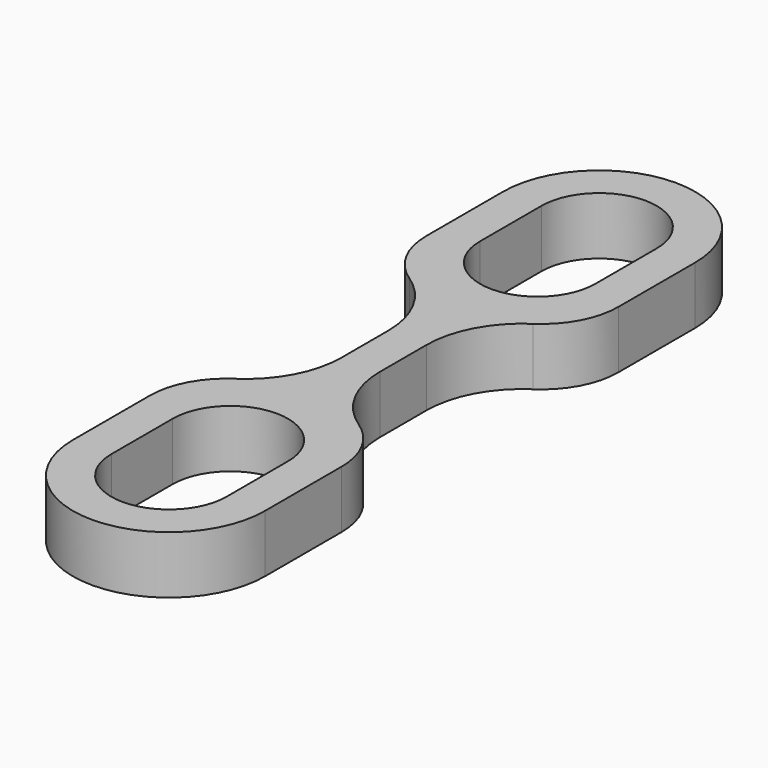
from build123d import *

# Parameters (mm, degrees)
F1_DEPTH = 15


with BuildPart() as f1:
    # F0 (on Top) → F1 (new body)
    with BuildSketch(Plane.XY):
        with BuildLine():
            Line((25, 45), (25, 70))
            ThreePointArc((25, 70), (0, 95), (-25, 70))
            Line((-25, 70), (-25, 45))
            ThreePointArc((-25, 45), (-22.638342, 35.57191), (-16.111111, 28.370412))
            ThreePointArc((-16.111111, 28.370412), (-7.952072, 19.368539), (-5, 7.583426))
            Line((-5, 7.583426), (-5, 0))
            Line((-5, 0), (-5, -7.583426))
            ThreePointArc((-5, -7.583426), (-7.952072, -19.368539), (-16.111111, -28.370412))
            ThreePointArc((-16.111111, -28.370412), (-22.638342, -35.57191), (-25, -45))
            Line((-25, -45), (-25, -70))
            ThreePointArc((-25, -70), (0, -95), (25, -70))
            Line((25, -70), (25, -45))
            ThreePointArc((25, -45), (22.638342, -35.57191), (16.111111, -28.370412))
            ThreePointArc((16.111111, -28.370412), (7.952072, -19.368539), (5, -7.583426))
            Line((5, -7.583426), (5, 0))
            Line((5, 0), (5, 7.583426))
            ThreePointArc((5, 7.583426), (7.952072, 19.368539), (16.111111, 28.370412))
            ThreePointArc((16.111111, 28.370412), (22.638342, 35.57191), (25, 45))
        make_face()
        with BuildLine():
            ThreePointArc((15, -70), (0, -85), (-15, -70))
            Line((-15, -70), (-15, -50))
            ThreePointArc((-15, -50), (0, -35), (15, -50))
            Line((15, -50), (15, -70))
        make_face(mode=Mode.SUBTRACT)
        with BuildLine():
            ThreePointArc((15, 50), (0, 35), (-15, 50))
            Line((-15, 50), (-15, 70))
            ThreePointArc((-15, 70), (0, 85), (15, 70))
            Line((15, 70), (15, 50))
        make_face(mode=Mode.SUBTRACT)
    extrude(amount=F1_DEPTH)


solid = f1.part
